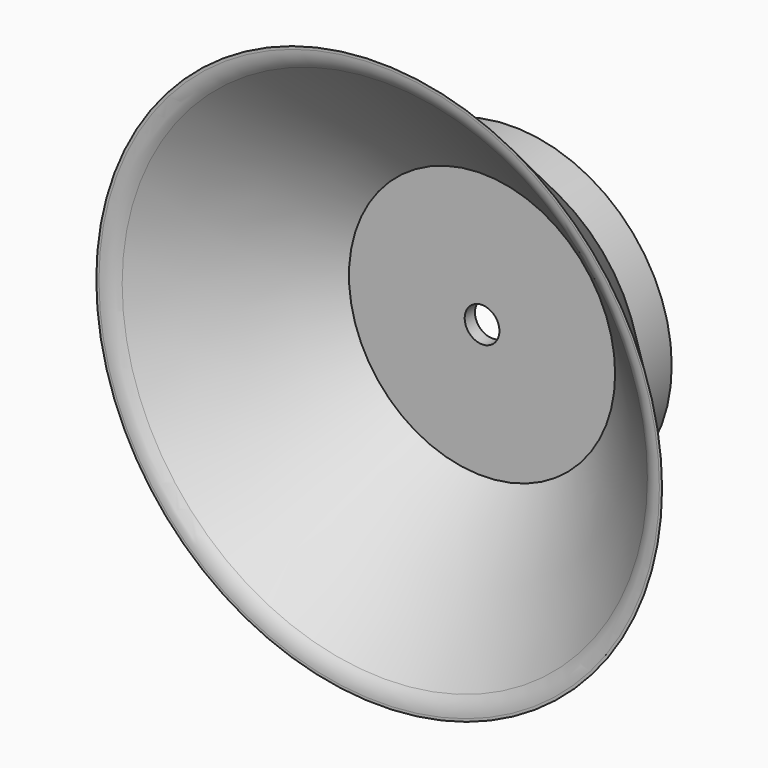
from build123d import *


with BuildPart() as f1:
    # F0 (on Top) → F1 (revolve)
    with BuildSketch(Plane.XY):
        with BuildLine():
            Line((22, -10), (12.35, 0))
            Line((12.35, 0), (10.35, 0))
            Line((10.35, 0), (20.422777, -9.458007))
            ThreePointArc((20.422777, -9.458007), (21.055595, -9.859572), (21.791797, -10))
            Line((21.791797, -10), (22, -10))
        make_face()
        Polygon((2.037337, 0), (10.35, 0), (10.35, 1), (1.35, 1), (1.35, 0), align=None)
        Polygon((10.35, 0), (12.35, 0), (12.35, 3), (10.35, 3), (10.35, 1), align=None)
        Polygon((10.35, 3), (12.35, 3), (11.049551, 3.974945), (10.35, 4), align=None)
    revolve(axis=Axis((0, -5, 0), (0, -1, 0)))


solid = f1.part
